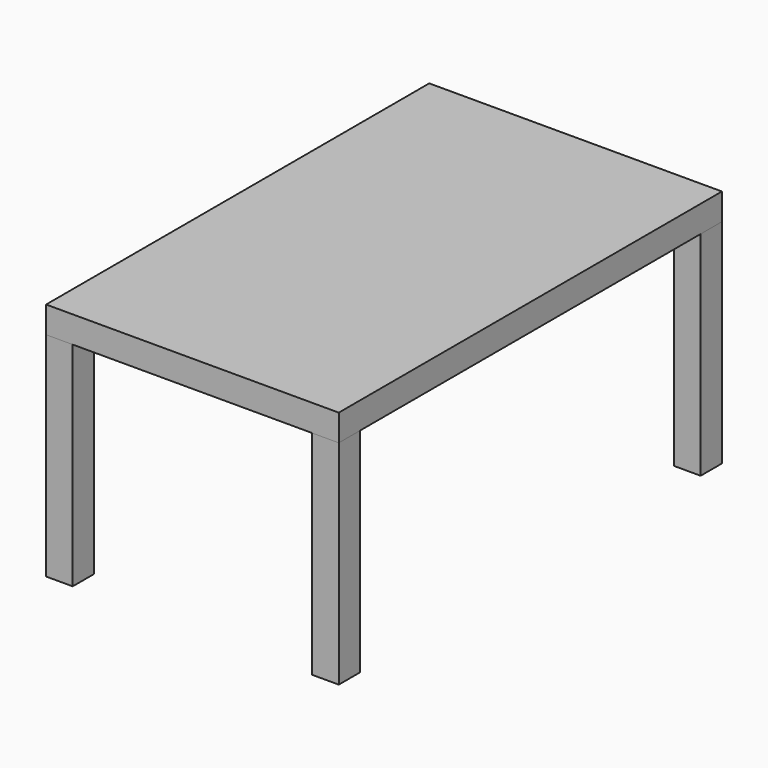
from build123d import *

# Parameters (mm, degrees)
F0_W     = 550
F0_H     = 900
F1_DEPTH = 50
F2_W     = 50
F2_H     = 50
F3_DEPTH = 400


with BuildPart() as f1:
    # F0 (on Top) → F1 (new body)
    with BuildSketch(Plane.XY):
        Rectangle(F0_W, F0_H)
    extrude(amount=F1_DEPTH)


with BuildPart() as f3:
    # F2 (on face) → F3 (new body)
    with BuildSketch(Plane(origin=(0, 0, 0), x_dir=(1, 0, 0), z_dir=(0, 0, -1))):
        with Locations((-250, 425)):
            Rectangle(F2_W, F2_H)
        with Locations((-250, -425)):
            Rectangle(F2_W, F2_H)
        with Locations((250, -425)):
            Rectangle(F2_W, F2_H)
        with Locations((250, 425)):
            Rectangle(F2_W, F2_H)
    extrude(amount=F3_DEPTH)


solid = Compound([f1.part, f3.part])
